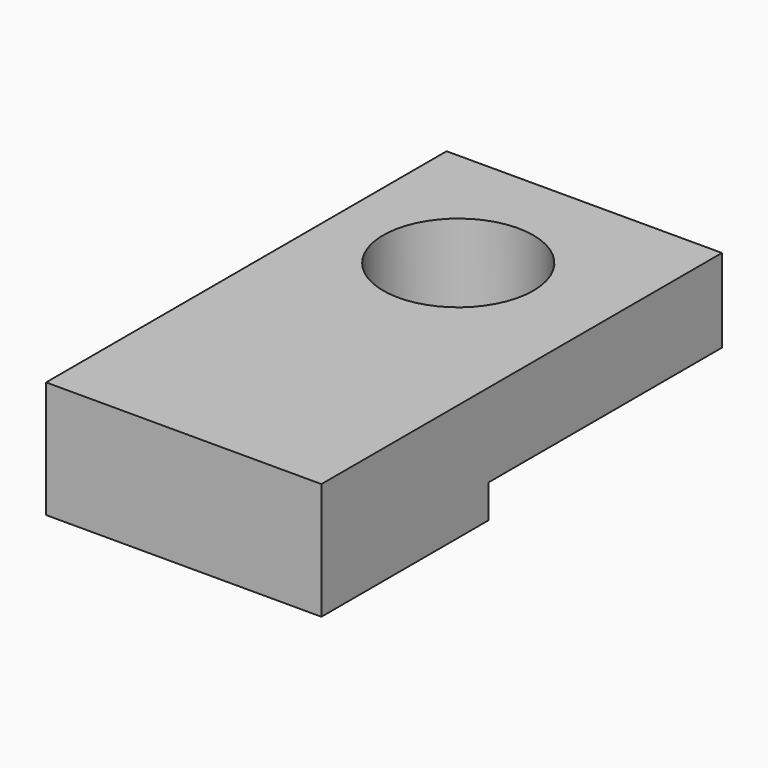
from build123d import *

# Parameters (mm, degrees)
SKETCH054_W             = 6.6
SKETCH054_H             = 12
PAD012_DEPTH            = 2
SKETCH055_W             = 6.6
SKETCH055_H             = 5
PAD013_DEPTH            = 0.8
SKETCH056_R             = 1.8
POCKET014_DEPTH         = 2
BODY005_PLACEMENT_ANGLE = 180


with BuildPart() as part:
    # Sketch054 → Pad012 (new body)
    with BuildSketch(Plane.XY):
        with Locations((3.3, 6)):
            Rectangle(SKETCH054_W, SKETCH054_H)
    extrude(amount=PAD012_DEPTH)

    # Sketch055 (on Face6 of Pad012) → Pad013 (join)
    with BuildSketch(Plane.XY.offset(2)):
        with Locations((3.3, 9.5)):
            Rectangle(SKETCH055_W, SKETCH055_H)
    extrude(amount=PAD013_DEPTH)

    # Sketch056 (on Face7 of Pad013) → Pocket014 (cut)
    with BuildSketch(Plane.XY.offset(2)):
        with Locations((3, 3.4)):
            Circle(SKETCH056_R)
    extrude(amount=-POCKET014_DEPTH, mode=Mode.SUBTRACT)


with BuildPart() as part_1:
    # Body005 placement: moved
    add(part.part.moved(Location((-17, 72.5, 8))).rotate(Axis((-17, 72.5, 8), (1, 0, 0)), BODY005_PLACEMENT_ANGLE))


solid = part_1.part
